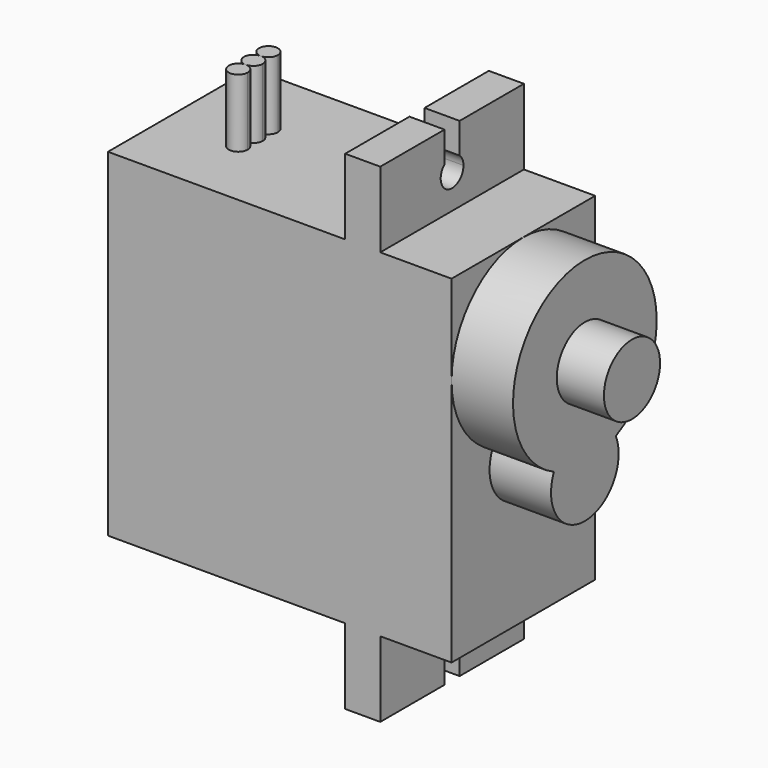
from build123d import *

# Parameters (mm, degrees)
F0_W     = 2.3622
F0_H     = 5.08
F1_DEPTH = 6.0452
F3_DEPTH = 4.1402
F4_R     = 2.3622
F5_DEPTH = 3.175
F7_DEPTH = 25.4
F9_DEPTH = 4.572


with BuildPart() as f1:
    # F0 (on Front) → F1 (new body, symmetric)
    with BuildSketch(Plane.XZ):
        Polygon((6.7691, -11.3792), (11.5697, -11.3792), (11.5697, 11.3792), (6.7691, 11.3792), (4.4069, 11.3792), (-11.5697, 11.3792), (-11.5697, -11.3792), (4.4069, -11.3792), align=None)
        with Locations((5.588, -13.9192)):
            Rectangle(F0_W, F0_H)
        with Locations((5.588, 13.9192)):
            Rectangle(F0_W, F0_H)
    extrude(amount=F1_DEPTH, both=True)

    # F2 (on face) → F3 (join)
    with BuildSketch(Plane.YZ.offset(11.5697)):
        with BuildLine():
            ThreePointArc((2.6067325083, -0.1203000165), (5.1138372285, 2.1101650414), (6.0452, 5.334))
            ThreePointArc((6.0452, 5.334), (-3.2238349586, 10.4478372285), (-2.6067325083, -0.1203000165))
            ThreePointArc((-2.6067325083, -0.1203000165), (0, 1.585275392), (2.6067325083, -0.1203000165))
        make_face()
        with BuildLine():
            ThreePointArc((2.6067325083, -0.1203000165), (0, 1.585275392), (-2.6067325083, -0.1203000165))
            ThreePointArc((-2.6067325083, -0.1203000165), (0, -0.7112), (2.6067325083, -0.1203000165))
        make_face()
        with BuildLine():
            ThreePointArc((2.6067325083, -0.1203000165), (0, -0.7112), (-2.6067325083, -0.1203000165))
            ThreePointArc((-2.6067325083, -0.1203000165), (-0.5819168327, -4.0441717742), (2.8448, -1.259524608))
            ThreePointArc((2.8448, -1.259524608), (2.7846471661, -0.6776077754), (2.6067325083, -0.1203000165))
        make_face()
    extrude(amount=F3_DEPTH)

    # F4 (on face) → F5 (join)
    with BuildSketch(Plane.YZ.offset(15.7099)):
        with Locations((0, 5.334)):
            Circle(F4_R)
    extrude(amount=F5_DEPTH)

    # F6 (on face) → F7 (cut)
    with BuildSketch(Plane.YZ.offset(6.7691)):
        with BuildLine():
            Line((0.635, 14.4026985524), (0.635, 16.4592))
            Line((0.635, 16.4592), (-0.635, 16.4592))
            Line((-0.635, 16.4592), (-0.635, 14.4026985524))
            ThreePointArc((-0.635, 14.4026985524), (0, 14.6431), (0.635, 14.4026985524))
        make_face()
        with BuildLine():
            ThreePointArc((0.95885, 13.68425), (0.8741461756, 14.0782827223), (0.635, 14.4026985524))
            Line((0.635, 14.4026985524), (0.635, 13.68425))
            Line((0.635, 13.68425), (-0.635, 13.68425))
            Line((-0.635, 13.68425), (-0.635, 14.4026985524))
            ThreePointArc((-0.635, 14.4026985524), (-0.3940327223, 12.8101038244), (0.95885, 13.68425))
        make_face()
        with BuildLine():
            Line((0.635, 13.68425), (0.635, 14.4026985524))
            ThreePointArc((0.635, 14.4026985524), (0, 14.6431), (-0.635, 14.4026985524))
            Line((-0.635, 14.4026985524), (-0.635, 13.68425))
            Line((-0.635, 13.68425), (0.635, 13.68425))
        make_face()
        with BuildLine():
            Line((0.635, -14.4026985524), (0.635, -13.68425))
            Line((0.635, -13.68425), (-0.635, -13.68425))
            Line((-0.635, -13.68425), (-0.635, -14.4026985524))
            ThreePointArc((-0.635, -14.4026985524), (0, -14.6431), (0.635, -14.4026985524))
        make_face()
        with BuildLine():
            Line((-0.635, -13.68425), (0.635, -13.68425))
            Line((0.635, -13.68425), (0.635, -14.4026985524))
            ThreePointArc((0.635, -14.4026985524), (0.8741461756, -14.0782827223), (0.95885, -13.68425))
            ThreePointArc((0.95885, -13.68425), (-0.3940327223, -12.8101038244), (-0.635, -14.4026985524))
            Line((-0.635, -14.4026985524), (-0.635, -13.68425))
        make_face()
        with BuildLine():
            Line((0.635, -16.4592), (0.635, -14.4026985524))
            ThreePointArc((0.635, -14.4026985524), (0, -14.6431), (-0.635, -14.4026985524))
            Line((-0.635, -14.4026985524), (-0.635, -16.4592))
            Line((-0.635, -16.4592), (0.635, -16.4592))
        make_face()
    extrude(amount=-F7_DEPTH, mode=Mode.SUBTRACT)


with BuildPart() as f9:
    # F8 (on face) → F9 (new body)
    with BuildSketch(Plane.XY.offset(11.3792)):
        with BuildLine():
            ThreePointArc((-6.6167, -0.635), (-6.1676871939, -0.4490128061), (-5.9817, 0))
            ThreePointArc((-5.9817, 0), (-6.1676871939, 0.4490128061), (-6.6167, 0.635))
            ThreePointArc((-6.6167, 0.635), (-7.2517, 0), (-6.6167, -0.635))
        make_face()
    extrude(amount=F9_DEPTH)


with BuildPart() as f9b:
    # F8 (on face) → F9, piece 2 (new body)
    with BuildSketch(Plane.XY.offset(11.3792)):
        with BuildLine():
            ThreePointArc((-5.9817, -1.27), (-6.1676871939, -0.8209871939), (-6.6167, -0.635))
            ThreePointArc((-6.6167, -0.635), (-7.0657128061, -1.7190128061), (-5.9817, -1.27))
        make_face()
    extrude(amount=F9_DEPTH)


with BuildPart() as f9c:
    # F8 (on face) → F9, piece 3 (new body)
    with BuildSketch(Plane.XY.offset(11.3792)):
        with BuildLine():
            ThreePointArc((-5.9817, 1.27), (-7.0657128061, 1.7190128061), (-6.6167, 0.635))
            ThreePointArc((-6.6167, 0.635), (-6.1676871939, 0.8209871939), (-5.9817, 1.27))
        make_face()
    extrude(amount=F9_DEPTH)


solid = Compound([f1.part, f9.part, f9b.part, f9c.part])
